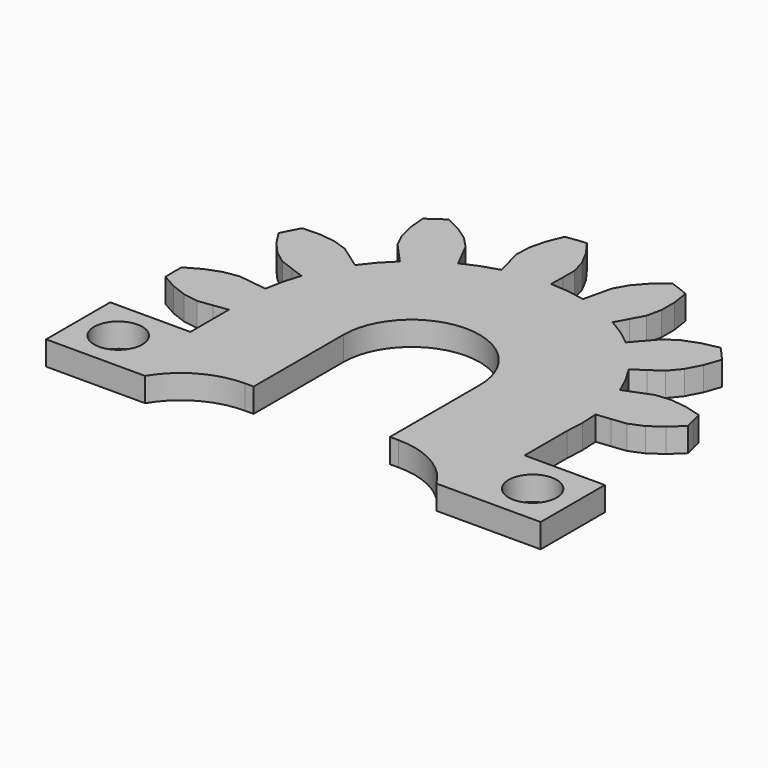
from build123d import *

# Parameters (mm, degrees)
F1_DEPTH  = 1.5
F3_DEPTH  = 1.5
F4_W      = 6.004848
F4_H      = 1.5
F4_W_2    = 6.339723
F5_DEPTH  = 8
F6_W      = 5
F6_H      = 1.5
F7_DEPTH  = 5
F8_R      = 1.5
F9_DEPTH  = 1.5
F10_W     = 5
F10_H     = 5
F10_R     = 1.5
F11_DEPTH = 1.5
F13_DEPTH = 1.5


with BuildPart() as f1:
    # F0 (on Top) → F1 (new body)
    with BuildSketch(Plane.XY):
        Polygon((10.589723, -1.110145), (10.648575, 0), (10.589723, 1.110145), (11.484679, 1.205301), (12.378936, 1.30701), (13.242702, 1.66848), (14.069737, 2.238581), (14.851424, 2.970895), (14.712702, 3.589735), (14.547945, 4.202158), (13.515472, 4.487322), (12.51823, 4.607779), (11.58542, 4.526432), (10.746328, 4.200909), (9.909663, 3.869259), (9.445863, 4.879593), (8.877842, 5.835228), (9.626065, 6.335391), (10.370624, 6.841032), (10.967468, 7.56251), (11.434831, 8.451652), (11.786658, 9.463352), (11.376236, 9.94684), (10.945744, 10.412547), (9.899012, 10.185233), (8.960019, 9.828451), (8.17186, 9.322923), (7.580159, 8.644742), (6.993455, 7.962262), (6.113255, 8.641331), (5.166192, 9.223531), (5.596273, 10.014119), (6.020563, 10.807856), (6.213755, 11.72406), (6.21438, 12.728551), (6.055747, 13.787869), (5.467648, 14.025244), (4.870041, 14.237547), (4.048845, 13.54983), (3.383212, 12.797544), (2.920263, 11.983645), (2.711504, 11.108168), (2.509167, 10.231207), (1.41421, 10.423443), (0.305065, 10.498834), (0.318479, 11.398734), (0.325301, 12.29873), (0.070583, 13.19977), (-0.395674, 14.089492), (-1.028426, 14.953751), (-1.659475, 14.890633), (-2.287292, 14.800897), (-2.694828, 13.810324), (-2.934611, 12.834873), (-2.966295, 11.899058), (-2.744287, 11.026847), (-2.515903, 10.156306), (-3.574776, 9.817671), (-4.591911, 9.36898), (-4.998239, 10.172036), (-5.410447, 10.972114), (-6.054722, 11.651571), (-6.881047, 12.222701), (-7.842962, 12.693909), (-8.372396, 12.344758), (-8.886598, 11.973539), (-8.787111, 10.90704), (-8.546113, 9.931888), (-8.139273, 9.088541), (-7.537358, 8.419408), (-6.930574, 7.754718), (-7.710788, 6.962788), (-8.402899, 6.092806), (-9.135883, 6.615047), (-9.87269, 7.131918), (-10.758927, 7.434137), (-11.756018, 7.555836), (-12.826734, 7.526046), (-13.133265, 6.970848), (-13.416055, 6.403188), (-12.832336, 5.505084), (-12.165768, 4.753627), (-11.413606, 4.195948), (-10.569675, 3.883184), (-9.723497, 3.576617), (-10.046314, 2.512814), (-10.254848, 1.420844), (-11.14657, 1.54263), (-12.039182, 1.657886), (-12.964354, 1.513633), (-13.903791, 1.15802), (-14.838018, 0.634056), (-14.851425, 0), (-14.838018, -0.634056), (-13.903791, -1.15802), (-12.964354, -1.513633), (-12.039182, -1.657886), (-11.14657, -1.54263), (-10.254848, -1.420844), (-10.046314, -2.512814), (-9.723497, -3.576617), (-10.569675, -3.883184), (-11.413606, -4.195948), (-12.165768, -4.753627), (-12.832336, -5.505084), (-13.416055, -6.403188), (-13.133265, -6.970848), (-12.826734, -7.526046), (-11.756018, -7.555836), (-10.758927, -7.434137), (-9.87269, -7.131918), (-9.135883, -6.615047), (-8.402899, -6.092806), (-7.710788, -6.962788), (-6.930574, -7.754718), (-7.537358, -8.419408), (-8.139273, -9.088541), (-8.546113, -9.931888), (-8.787111, -10.90704), (-8.886598, -11.973539), (-8.372396, -12.344758), (-7.842962, -12.693909), (-6.881047, -12.222701), (-6.054722, -11.651571), (-5.410447, -10.972114), (-4.998239, -10.172036), (-4.591911, -9.36898), (-3.574776, -9.817671), (-2.515903, -10.156306), (-2.744287, -11.026847), (-2.966295, -11.899058), (-2.934611, -12.834873), (-2.694828, -13.810324), (-2.287292, -14.800897), (-1.659475, -14.890633), (-1.028426, -14.953751), (-0.395674, -14.089492), (0.070583, -13.19977), (0.325301, -12.29873), (0.318479, -11.398734), (0.305065, -10.498834), (1.41421, -10.423443), (2.509167, -10.231207), (2.711504, -11.108168), (2.920263, -11.983645), (3.383212, -12.797544), (4.048845, -13.54983), (4.870041, -14.237547), (5.467648, -14.025244), (6.055747, -13.787869), (6.21438, -12.728551), (6.213755, -11.72406), (6.020563, -10.807856), (5.596273, -10.014119), (5.166192, -9.223531), (6.113255, -8.641331), (6.993455, -7.962262), (7.580159, -8.644742), (8.17186, -9.322923), (8.960019, -9.828451), (9.899012, -10.185233), (10.945744, -10.412547), (11.376236, -9.94684), (11.786658, -9.463352), (11.434831, -8.451652), (10.967468, -7.56251), (10.370624, -6.841032), (9.626065, -6.335391), (8.877842, -5.835228), (9.445863, -4.879593), (9.909663, -3.869259), (10.746328, -4.200909), (11.58542, -4.526432), (12.51823, -4.607779), (13.515472, -4.487322), (14.547945, -4.202158), (14.712702, -3.589735), (14.851424, -2.970895), (14.069737, -2.238581), (13.242702, -1.66848), (12.378936, -1.30701), (11.484679, -1.205301), align=None)
    extrude(amount=F1_DEPTH)

    # F2 (on face) → F3 (cut, through all)
    with BuildSketch(Plane.XY.offset(1.5)):
        with BuildLine():
            Line((4.25, -1.420844), (4.25, 0))
            ThreePointArc((4.25, 0), (0, 4.25), (-4.25, 0))
            Line((-4.25, 0), (-4.25, -1.420844))
            Line((-4.25, -1.420844), (-10.254848, -1.420844))
            Line((-10.254848, -1.420844), (-10.046314, -2.512814))
            Line((-10.046314, -2.512814), (-9.723497, -3.576617))
            Line((-9.723497, -3.576617), (-10.569675, -3.883184))
            Line((-10.569675, -3.883184), (-11.413606, -4.195948))
            Line((-11.413606, -4.195948), (-12.165768, -4.753627))
            Line((-12.165768, -4.753627), (-12.832336, -5.505084))
            Line((-12.832336, -5.505084), (-13.416055, -6.403188))
            Line((-13.416055, -6.403188), (-13.133265, -6.970848))
            Line((-13.133265, -6.970848), (-12.826734, -7.526046))
            Line((-12.826734, -7.526046), (-11.756018, -7.555836))
            Line((-11.756018, -7.555836), (-10.758927, -7.434137))
            Line((-10.758927, -7.434137), (-9.87269, -7.131918))
            Line((-9.87269, -7.131918), (-9.135883, -6.615047))
            Line((-9.135883, -6.615047), (-8.402899, -6.092806))
            Line((-8.402899, -6.092806), (-7.710788, -6.962788))
            Line((-7.710788, -6.962788), (-6.930574, -7.754718))
            Line((-6.930574, -7.754718), (-7.537358, -8.419408))
            Line((-7.537358, -8.419408), (-8.139273, -9.088541))
            Line((-8.139273, -9.088541), (-8.546113, -9.931888))
            Line((-8.546113, -9.931888), (-8.787111, -10.90704))
            Line((-8.787111, -10.90704), (-8.886598, -11.973539))
            Line((-8.886598, -11.973539), (-8.372396, -12.344758))
            Line((-8.372396, -12.344758), (-7.842962, -12.693909))
            Line((-7.842962, -12.693909), (-6.881047, -12.222701))
            Line((-6.881047, -12.222701), (-6.054722, -11.651571))
            Line((-6.054722, -11.651571), (-5.410447, -10.972114))
            Line((-5.410447, -10.972114), (-4.998239, -10.172036))
            Line((-4.998239, -10.172036), (-4.591911, -9.36898))
            Line((-4.591911, -9.36898), (-3.574776, -9.817671))
            Line((-3.574776, -9.817671), (-2.515903, -10.156306))
            Line((-2.515903, -10.156306), (-2.744287, -11.026847))
            Line((-2.744287, -11.026847), (-2.966295, -11.899058))
            Line((-2.966295, -11.899058), (-2.934611, -12.834873))
            Line((-2.934611, -12.834873), (-2.694828, -13.810324))
            Line((-2.694828, -13.810324), (-2.287292, -14.800897))
            Line((-2.287292, -14.800897), (-1.659475, -14.890633))
            Line((-1.659475, -14.890633), (-1.028426, -14.953751))
            Line((-1.028426, -14.953751), (-0.395674, -14.089492))
            Line((-0.395674, -14.089492), (0.070583, -13.19977))
            Line((0.070583, -13.19977), (0.325301, -12.29873))
            Line((0.325301, -12.29873), (0.318479, -11.398734))
            Line((0.318479, -11.398734), (0.305065, -10.498834))
            Line((0.305065, -10.498834), (1.41421, -10.423443))
            Line((1.41421, -10.423443), (2.509167, -10.231207))
            Line((2.509167, -10.231207), (2.711504, -11.108168))
            Line((2.711504, -11.108168), (2.920263, -11.983645))
            Line((2.920263, -11.983645), (3.383212, -12.797544))
            Line((3.383212, -12.797544), (4.048845, -13.54983))
            Line((4.048845, -13.54983), (4.870041, -14.237547))
            Line((4.870041, -14.237547), (5.467648, -14.025244))
            Line((5.467648, -14.025244), (6.055747, -13.787869))
            Line((6.055747, -13.787869), (6.21438, -12.728551))
            Line((6.21438, -12.728551), (6.213755, -11.72406))
            Line((6.213755, -11.72406), (6.020563, -10.807856))
            Line((6.020563, -10.807856), (5.596273, -10.014119))
            Line((5.596273, -10.014119), (5.166192, -9.223531))
            Line((5.166192, -9.223531), (6.113255, -8.641331))
            Line((6.113255, -8.641331), (6.993455, -7.962262))
            Line((6.993455, -7.962262), (7.580159, -8.644742))
            Line((7.580159, -8.644742), (8.17186, -9.322923))
            Line((8.17186, -9.322923), (8.960019, -9.828451))
            Line((8.960019, -9.828451), (9.899012, -10.185233))
            Line((9.899012, -10.185233), (10.945744, -10.412547))
            Line((10.945744, -10.412547), (11.376236, -9.94684))
            Line((11.376236, -9.94684), (11.786658, -9.463352))
            Line((11.786658, -9.463352), (11.434831, -8.451652))
            Line((11.434831, -8.451652), (10.967468, -7.56251))
            Line((10.967468, -7.56251), (10.370624, -6.841032))
            Line((10.370624, -6.841032), (9.626065, -6.335391))
            Line((9.626065, -6.335391), (8.877842, -5.835228))
            Line((8.877842, -5.835228), (9.445863, -4.879593))
            Line((9.445863, -4.879593), (9.909663, -3.869259))
            Line((9.909663, -3.869259), (10.746328, -4.200909))
            Line((10.746328, -4.200909), (11.58542, -4.526432))
            Line((11.58542, -4.526432), (12.51823, -4.607779))
            Line((12.51823, -4.607779), (13.515472, -4.487322))
            Line((13.515472, -4.487322), (14.547945, -4.202158))
            Line((14.547945, -4.202158), (14.712702, -3.589735))
            Line((14.712702, -3.589735), (14.851424, -2.970895))
            Line((14.851424, -2.970895), (14.069737, -2.238581))
            Line((14.069737, -2.238581), (13.242702, -1.66848))
            Line((13.242702, -1.66848), (12.378936, -1.30701))
            Line((12.378936, -1.30701), (11.484679, -1.205301))
            Line((11.484679, -1.205301), (10.589723, -1.110145))
            Line((10.589723, -1.110145), (10.589723, -1.420844))
            Line((10.589723, -1.420844), (4.25, -1.420844))
        make_face()
    extrude(amount=-F3_DEPTH, mode=Mode.SUBTRACT)

    # F4 (on face) → F5 (join)
    with BuildSketch(Plane.XZ.offset(1.420844)):
        with Locations((-7.252424, 0.75)):
            Rectangle(F4_W, F4_H)
        with Locations((7.4198615, 0.75)):
            Rectangle(F4_W_2, F4_H)
    extrude(amount=F5_DEPTH)

    # F6 (on face) → F7 (join)
    with BuildSketch(Plane.YZ.offset(10.589723)):
        with Locations((-6.920844, 0.75)):
            Rectangle(F6_W, F6_H)
    extrude(amount=F7_DEPTH)

    # F8 (on face) → F9 (cut, through all)
    with BuildSketch(Plane(origin=(0, 0, 0), x_dir=(1, 0, 0), z_dir=(0, 0, -1))):
        with Locations((13.089723, 6.920844)):
            Circle(F8_R)
    extrude(amount=-F9_DEPTH, mode=Mode.SUBTRACT)

    # F10 (on Top) → F11 (join)
    with BuildSketch(Plane.XY):
        with Locations((-12.754848, -6.920844)):
            Rectangle(F10_W, F10_H)
        with Locations((-12.754848, -6.920844)):
            Circle(F10_R, mode=Mode.SUBTRACT)
    extrude(amount=F11_DEPTH)

    # F12 (on face) → F13 (cut, through all)
    with BuildSketch(Plane.XY.offset(1.5)):
        with BuildLine():
            Line((-4.25, -7), (-4.8, -7))
            ThreePointArc((-4.8, -7), (-7.2601036564, -7.6470825875), (-9.0834512169, -9.420844))
            Line((-9.0834512169, -9.420844), (-4.25, -9.420844))
            Line((-4.25, -9.420844), (-4.25, -7))
        make_face()
        with BuildLine():
            Line((4.8, -7), (4.25, -7))
            Line((4.25, -7), (4.25, -9.420844))
            Line((4.25, -9.420844), (9.0834512169, -9.420844))
            ThreePointArc((9.0834512169, -9.420844), (7.2601036564, -7.6470825875), (4.8, -7))
        make_face()
    extrude(amount=-F13_DEPTH, mode=Mode.SUBTRACT)


solid = f1.part
